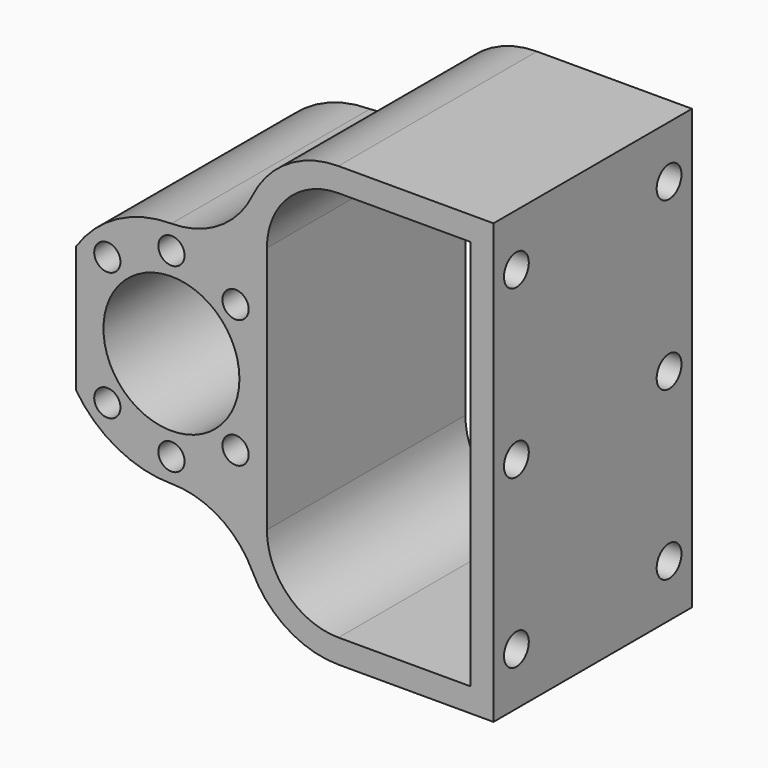
from build123d import *

# Parameters (mm, degrees)
F1_R     = 2.75
F1_R_2   = 14.25
F2_DEPTH = 52
F3_R     = 3.25
F4_DEPTH = 4.8


with BuildPart() as f2:
    # F1 (on Front) → F2 (new body)
    with BuildSketch(Plane.XZ):
        with BuildLine():
            ThreePointArc((0, 24), (-11.349097, 21.147056), (-20, 13.266499))
            Line((-20, 13.266499), (-20, -13.266499))
            ThreePointArc((-20, -13.266499), (-11.349097, -21.147056), (0, -24))
            ThreePointArc((0, -24), (10.026596, -26.889507), (16.977765, -34.671738))
            ThreePointArc((16.977765, -34.671738), (24.356569, -42.932731), (35, -46))
            Line((35, -46), (67.5, -46))
            Line((67.5, -46), (67.5, 46))
            Line((67.5, 46), (35, 46))
            ThreePointArc((35, 46), (24.356569, 42.932731), (16.977765, 34.671738))
            ThreePointArc((16.977765, 34.671738), (10.026596, 26.889507), (0, 24))
        make_face()
        with Locations((-13.435029, -13.435029)):
            Circle(F1_R, mode=Mode.SUBTRACT)
        with Locations((0, -19)):
            Circle(F1_R, mode=Mode.SUBTRACT)
        with Locations((13.435029, -13.435029)):
            Circle(F1_R, mode=Mode.SUBTRACT)
        Circle(F1_R_2, mode=Mode.SUBTRACT)
        with Locations((-13.435029, 13.435029)):
            Circle(F1_R, mode=Mode.SUBTRACT)
        with Locations((0, 19)):
            Circle(F1_R, mode=Mode.SUBTRACT)
        with Locations((13.435029, 13.435029)):
            Circle(F1_R, mode=Mode.SUBTRACT)
        with BuildLine():
            Line((35, 41), (62.7, 41))
            Line((62.7, 41), (62.7, -41))
            Line((62.7, -41), (35, -41))
            ThreePointArc((35, -41), (24.393398, -36.606602), (20, -26))
            Line((20, -26), (20, 26))
            ThreePointArc((20, 26), (24.393398, 36.606602), (35, 41))
        make_face(mode=Mode.SUBTRACT)
    extrude(amount=F2_DEPTH)

    # F3 (on face) → F4 (cut, through all)
    with BuildSketch(Plane.YZ.offset(67.5)):
        with Locations((-46, 35)):
            Circle(F3_R)
        with Locations((-46, 0)):
            Circle(F3_R)
        with Locations((-46, -35)):
            Circle(F3_R)
        with Locations((-6, 35)):
            Circle(F3_R)
        with Locations((-6, 0)):
            Circle(F3_R)
        with Locations((-6, -35)):
            Circle(F3_R)
    extrude(amount=-F4_DEPTH, mode=Mode.SUBTRACT)


solid = f2.part
